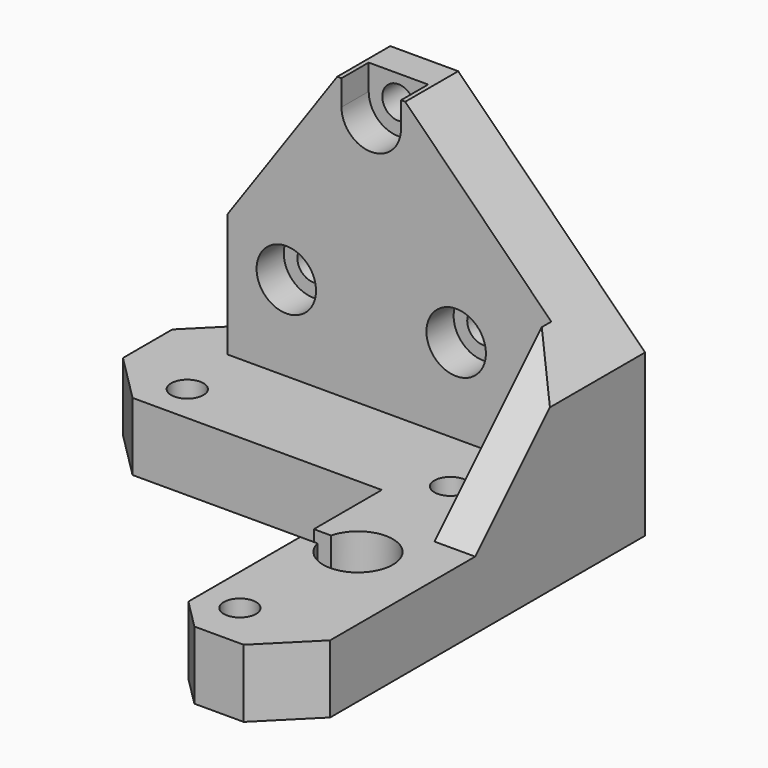
from build123d import *

# Parameters (mm, degrees)
SKETCH_R        = 1.9
SKETCH_R_2      = 4.1
PAD_DEPTH       = 8
PAD001_DEPTH    = 33
SKETCH002_R     = 1.9
POCKET_DEPTH    = 7.801
POCKET001_DEPTH = 5
POCKET002_DEPTH = 52.001
SKETCH006_R     = 3.5
POCKET003_DEPTH = 4
SKETCH007_W     = 2.023821
SKETCH007_H     = 2
POCKET004_DEPTH = 8.001


with BuildPart() as pocket004:
    # Sketch → Pad (new body)
    with BuildSketch(Plane.XY.offset(10)):
        Polygon((0, 52), (0, 5.656854), (5.656854, 0), (11.464466, 0), (15, 3.535534), (15, 32), (44.343146, 32), (50, 37.656854), (50, 44.928932), (42.928932, 52), align=None)
        with Locations((41.5, 36.5)):
            Circle(SKETCH_R, mode=Mode.SUBTRACT)
        with Locations((10.5, 36.5)):
            Circle(SKETCH_R, mode=Mode.SUBTRACT)
        with Locations((10.5, 5.5)):
            Circle(SKETCH_R, mode=Mode.SUBTRACT)
        with Locations((9, 21)):
            Circle(SKETCH_R_2, mode=Mode.SUBTRACT)
    extrude(amount=PAD_DEPTH)

    # Sketch001 → Pad001 (new body)
    with BuildSketch(Plane.XY.offset(18)):
        Polygon((42.928932, 52), (0, 52), (0, 27), (4.8, 27), (4.8, 44.2), (42.928932, 44.2), align=None)
    extrude(amount=PAD001_DEPTH)

    # Sketch002 → Pocket (cut, through all)
    with BuildSketch(Plane(origin=(0, 44.2, 10), x_dir=(1, 0, 0), z_dir=(0, -1, 0))):
        with Locations((26, 38)):
            Circle(SKETCH002_R)
        with Locations((16, 18)):
            Circle(SKETCH002_R)
        with Locations((36, 18)):
            Circle(SKETCH002_R)
    extrude(amount=-POCKET_DEPTH, mode=Mode.SUBTRACT)

    # Sketch003 → Pocket001 (cut)
    with BuildSketch(Plane(origin=(4.8, 0, 10), x_dir=(0, 1, 0), z_dir=(1, 0, 0))):
        Polygon((27, 8), (44.2, 25.2), (44.2, 41), (27, 41), align=None)
    extrude(amount=-POCKET001_DEPTH, mode=Mode.SUBTRACT)

    # Sketch005 → Pocket002 (cut, through all)
    with BuildSketch(Plane(origin=(0, 52, 10), x_dir=(-1, 0, 0), z_dir=(0, 1, 0))):
        Polygon((-42.928932, 22.535571), (-30, 41), (-42.928932, 41), align=None)
        Polygon((-22, 41), (0, 19), (0, 41), align=None)
    extrude(amount=-POCKET002_DEPTH, mode=Mode.SUBTRACT)

    # Sketch006 → Pocket003 (cut)
    with BuildSketch(Plane(origin=(0, 44.2, 10), x_dir=(1, 0, 0), z_dir=(0, -1, 0))):
        with Locations((16, 18)):
            Circle(SKETCH006_R)
        with Locations((36, 18)):
            Circle(SKETCH006_R)
        with BuildLine():
            ThreePointArc((22.5, 38), (26, 34.5), (29.5, 38))
            Line((29.5, 41), (29.5, 38))
            Line((22.5, 41), (29.5, 41))
            Line((22.5, 38), (22.5, 41))
        make_face()
    extrude(amount=-POCKET003_DEPTH, mode=Mode.SUBTRACT)

    # Sketch007 → Pocket004 (cut, through all)
    with BuildSketch(Plane.XY.offset(18)):
        with Locations((13.98809, 21)):
            Rectangle(SKETCH007_W, SKETCH007_H)
    extrude(amount=-POCKET004_DEPTH, mode=Mode.SUBTRACT)


with BuildPart() as part_mirroring:
    # Part__Mirroring: instance of Pocket004
    add(pocket004.part.mirror(Plane(origin=(0, 26, 30.500002), x_dir=(0, -1, 0), z_dir=(1, 0, 0))))


with BuildPart() as part_mirroring_1:
    # Part__Mirroring placement: moved
    add(part_mirroring.part.moved(Location((-10, 0, 0))))


solid = part_mirroring_1.part
